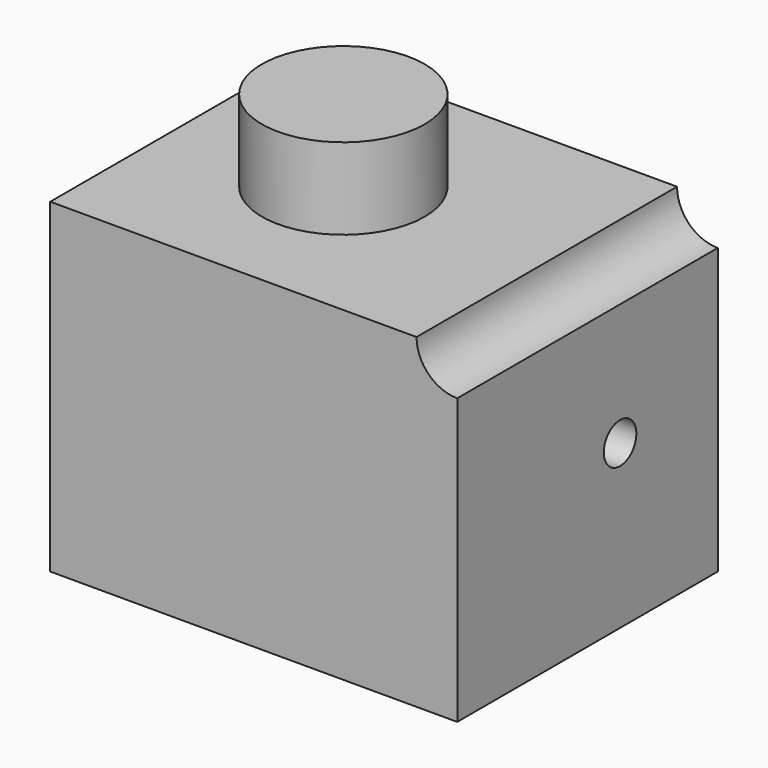
from build123d import *

# Parameters (mm, degrees)
F1_DEPTH = 4
F3_DEPTH = 1
F4_R     = 0.5
F5_DEPTH = 4
F6_R     = 0.25
F7_DEPTH = 25


with BuildPart() as f1:
    # F0 (on Top) → F1 (new body)
    with BuildSketch(Plane.XY):
        Polygon((0, 2), (0, 0), (5, 0), (5, 4), (2, 4), (0, 4), align=None)
    extrude(amount=F1_DEPTH)

    # F2 (on face) → F3 (join)
    with BuildSketch(Plane.XY.offset(4)):
        with BuildLine():
            ThreePointArc((1, 2), (2, 1), (3, 2))
            ThreePointArc((3, 2), (2, 3), (1, 2))
        make_face()
    extrude(amount=F3_DEPTH)

    # F4 (on face) → F5 (cut)
    with BuildSketch(Plane(origin=(0, 4, 0), x_dir=(-1, 0, 0), z_dir=(0, 1, 0))):
        with Locations((-5, 4)):
            Circle(F4_R)
    extrude(amount=-F5_DEPTH, mode=Mode.SUBTRACT)

    # F6 (on face) → F7 (cut)
    with BuildSketch(Plane.YZ.offset(5)):
        with Locations((2.5, 2)):
            Circle(F6_R)
    extrude(amount=-F7_DEPTH, mode=Mode.SUBTRACT)


solid = f1.part
